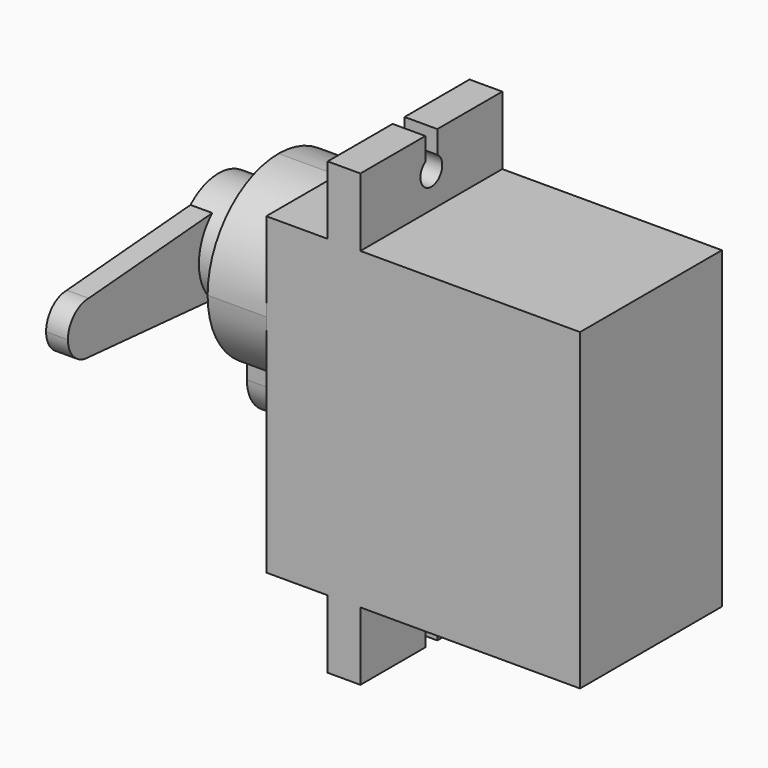
from build123d import *

# Parameters (mm, degrees)
F0_W     = 4.5
F0_H     = 23
F0_W_2   = 2.4
F0_H_2   = 5
F0_W_3   = 16.1
F1_DEPTH = 13
F3_DEPTH = 4.3
F5_DEPTH = 18.501
F6_R     = 3.8
F7_DEPTH = 4.4
F9_DEPTH = 1.6


with BuildPart() as f1:
    # F0 (on Front) → F1 (new body)
    with BuildSketch(Plane.XZ):
        with Locations((-20.75, 0)):
            Rectangle(F0_W, F0_H)
        with Locations((-17.3, 14)):
            Rectangle(F0_W_2, F0_H_2)
        with Locations((-8.05, 0)):
            Rectangle(F0_W_3, F0_H)
        with Locations((-17.3, -14)):
            Rectangle(F0_W_2, F0_H_2)
        with Locations((-17.3, 0)):
            Rectangle(F0_W_2, F0_H)
    extrude(amount=F1_DEPTH)

    # F2 (on face) → F3 (join)
    with BuildSketch(Plane(origin=(-23, 0, 0), x_dir=(0, -1, 0), z_dir=(-1, 0, 0))):
        with BuildLine():
            Line((9.4, -1.9172158289), (9.4, -0.8172158289))
            ThreePointArc((9.4, -0.8172158289), (12.0272054422, 1.5794737247), (13, 5))
            ThreePointArc((13, 5), (11.0961940777, 9.5961940777), (6.5, 11.5))
            ThreePointArc((6.5, 11.5), (1.9038059223, 9.5961940777), (0, 5))
            ThreePointArc((0, 5), (0.9727945578, 1.5794737247), (3.6, -0.8172158289))
            Line((3.6, -0.8172158289), (3.6, -1.9172158289))
            ThreePointArc((3.6, -1.9172158289), (6.5, -4.8172158289), (9.4, -1.9172158289))
        make_face()
    extrude(amount=F3_DEPTH)

    # F4 (on face) → F5 (cut, through all)
    with BuildSketch(Plane(origin=(-18.5, 0, 0), x_dir=(0, -1, 0), z_dir=(-1, 0, 0))):
        with BuildLine():
            Line((5.95, 16.5), (5.95, 14.8351646544))
            ThreePointArc((5.95, 14.8351646544), (6.5, 13), (7.05, 14.8351646544))
            Line((7.05, 14.8351646544), (7.05, 16.5))
            Line((7.05, 16.5), (5.95, 16.5))
        make_face()
        with BuildLine():
            Line((7.05, -16.5), (7.05, -14.8351646544))
            ThreePointArc((7.05, -14.8351646544), (6.5, -13), (5.95, -14.8351646544))
            Line((5.95, -14.8351646544), (5.95, -16.5))
            Line((5.95, -16.5), (7.05, -16.5))
        make_face()
    extrude(amount=-F5_DEPTH, mode=Mode.SUBTRACT)


with BuildPart() as f7:
    # F6 (on face) → F7 (new body)
    with BuildSketch(Plane(origin=(-27.3, 0, 0), x_dir=(0, -1, 0), z_dir=(-1, 0, 0))):
        with Locations((6.5, 5)):
            Circle(F6_R)
    extrude(amount=F7_DEPTH)

    # F8 (on face) → F9 (join)
    with BuildSketch(Plane(origin=(-31.7, 0, 0), x_dir=(0, -1, 0), z_dir=(-1, 0, 0))):
        with BuildLine():
            ThreePointArc((20.4, 3.1), (18.5, 5), (20.4, 6.9))
            Line((20.4, 6.9), (9.0690465157, 7.8))
            ThreePointArc((9.0690465157, 7.8), (9.9786762396, 6.5293173706), (10.3, 5))
            ThreePointArc((10.3, 5), (9.9786762396, 3.4706826294), (9.0690465157, 2.2))
            Line((9.0690465157, 2.2), (20.4, 3.1))
        make_face()
        with BuildLine():
            ThreePointArc((20.4, 3.1), (21.7435028843, 3.6564971157), (22.3, 5))
            ThreePointArc((22.3, 5), (21.7435028843, 6.3435028843), (20.4, 6.9))
            ThreePointArc((20.4, 6.9), (18.5, 5), (20.4, 3.1))
        make_face()
    extrude(amount=-F9_DEPTH)


solid = Compound([f1.part, f7.part])
